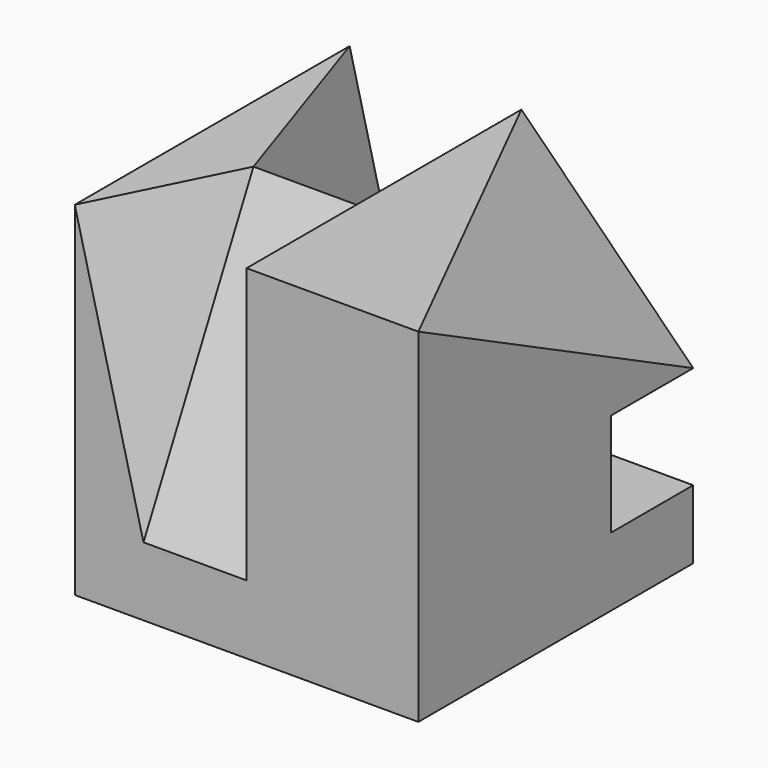
from build123d import *

# Parameters (mm, degrees)
F0_W      = 50
F0_H      = 50
F1_DEPTH  = 50
F8_W      = 15
F8_H      = 40
F10_W     = 15
F10_H     = 40
F19_DEPTH = 15


with BuildPart() as f1:
    # F0 (on Front) → F1 (new body)
    with BuildSketch(Plane.XZ):
        with Locations((25, 25)):
            Rectangle(F0_W, F0_H)
    extrude(amount=F1_DEPTH)

    # F7: sweep along a path in F5
    with BuildLine(Plane.YZ.offset(50)) as f7_path:
        Line((-50, 50), (0, 25))
    # F6 (on face) → F7 (sweep, cut)
    with BuildSketch(Plane(origin=(0, 0, 0), x_dir=(-1, 0, 0), z_dir=(0, 1, 0))):
        Polygon((-50, 25), (-25, 50), (-50, 50), align=None)
    sweep(path=f7_path.line, mode=Mode.SUBTRACT)

    # F9: sweep along a path in F2
    with BuildLine(Plane.YZ.offset(50)) as f9_path:
        Line((-30, 50), (-50, 10))
    # F8 (on face) → F9 (sweep, cut)
    with BuildSketch(Plane.XZ.offset(50)):
        with Locations((17.5, 30)):
            Rectangle(F8_W, F8_H)
    sweep(path=f9_path.line, mode=Mode.SUBTRACT)

    # F11: sweep along a path in F3
    with BuildLine(Plane.YZ.offset(50)) as f11_path:
        Line((-30, 50), (0, 10))
    # F10 (on face) → F11 (sweep, cut)
    with BuildSketch(Plane(origin=(0, 0, 0), x_dir=(-1, 0, 0), z_dir=(0, 1, 0))):
        with Locations((-17.5, 30)):
            Rectangle(F10_W, F10_H)
    sweep(path=f11_path.line, mode=Mode.SUBTRACT)

    # F14: sweep along a path in F12
    with BuildLine(Plane.XZ.offset(50)) as f14_path:
        Line((0, 50), (10, 10))
    # F9_face (on face) → F14 (sweep, cut)
    with BuildSketch(Plane(origin=(10, -43.3333333333, 36.6666666667), x_dir=(0, 1, 0), z_dir=(1, 0, 0))):
        Polygon((-6.6666666667, 13.3333333333), (-6.6666666667, -26.6666666667), (13.3333333333, 13.3333333333), align=None)
    sweep(path=f14_path.line, mode=Mode.SUBTRACT)

    # F16: sweep along a path in F15
    with BuildLine(Plane(origin=(0, 0, 0), x_dir=(-1, 0, 0), z_dir=(0, 1, 0))) as f16_path:
        Line((0, 50), (-10, 10))
    # F11_face (on face) → F16 (sweep, cut)
    with BuildSketch(Plane(origin=(10, -10, 36.6666666667), x_dir=(0, 1, 0), z_dir=(1, 0, 0))):
        Polygon((-20, 13.3333333333), (10, -26.6666666667), (10, 13.3333333333), align=None)
    sweep(path=f16_path.line, mode=Mode.SUBTRACT)

    # F18 (on face) → F19 (cut, through all)
    with BuildSketch(Plane(origin=(0, 0, 0), x_dir=(-1, 0, 0), z_dir=(0, 1, 0))):
        Polygon((-30, 10), (-50, 25), (-50, 10), align=None)
    extrude(amount=-F19_DEPTH, mode=Mode.SUBTRACT)


solid = f1.part
